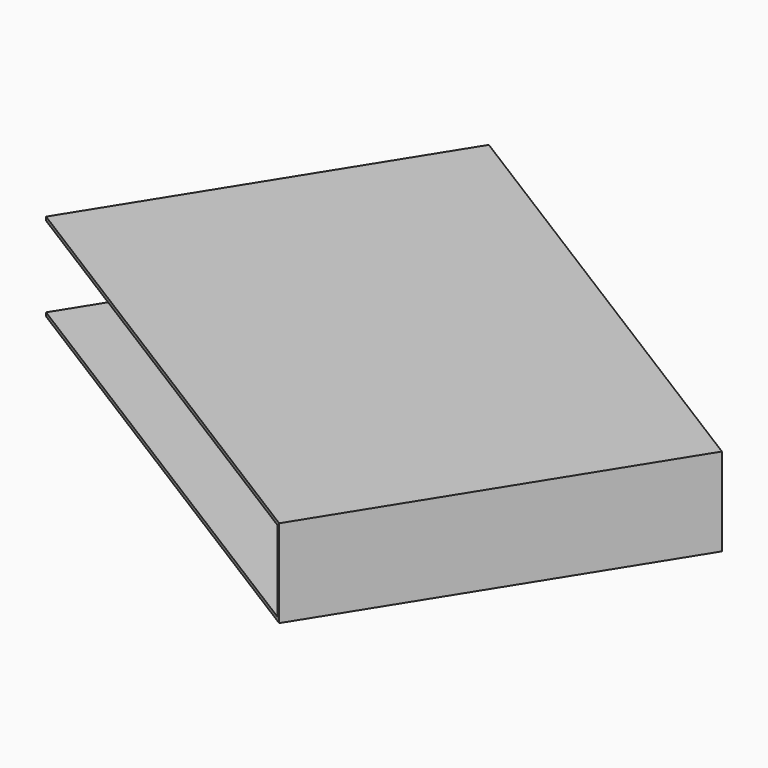
from build123d import *

# Parameters (mm, degrees)
BOX187_W               = 5
BOX187_H               = 7.45
BOX187_DEPTH           = 1.1
BOX186_W               = 5
BOX186_H               = 7.5
BOX186_DEPTH           = 1.2
CUT094_PLACEMENT_ANGLE = 122


with BuildPart() as small_cu_gnd_electrode078:
    # Box187 → Box187 (new body)
    with BuildSketch(Plane.XY.offset(0.05)):
        with Locations((2.5, 3.725)):
            Rectangle(BOX187_W, BOX187_H)
    extrude(amount=BOX187_DEPTH)


with BuildPart() as small_cu_electrode001_long_axis_v009:
    # Box186 → Box186 (new body)
    with BuildSketch(Plane.XY):
        with Locations((2.5, 3.75)):
            Rectangle(BOX186_W, BOX186_H)
    extrude(amount=BOX186_DEPTH)

    # Cut094: cut Small Cu GND Electrode078
    add(small_cu_gnd_electrode078.part, mode=Mode.SUBTRACT)


with BuildPart() as small_cu_electrode001_long_axis_v009_1:
    # Cut094 placement: moved
    add(small_cu_electrode001_long_axis_v009.part.moved(Location((8.162853, 22.819562, 2.14))).rotate(Axis((8.162853, 22.819562, 2.14), (0, 0, -1)), CUT094_PLACEMENT_ANGLE))


solid = small_cu_electrode001_long_axis_v009_1.part
